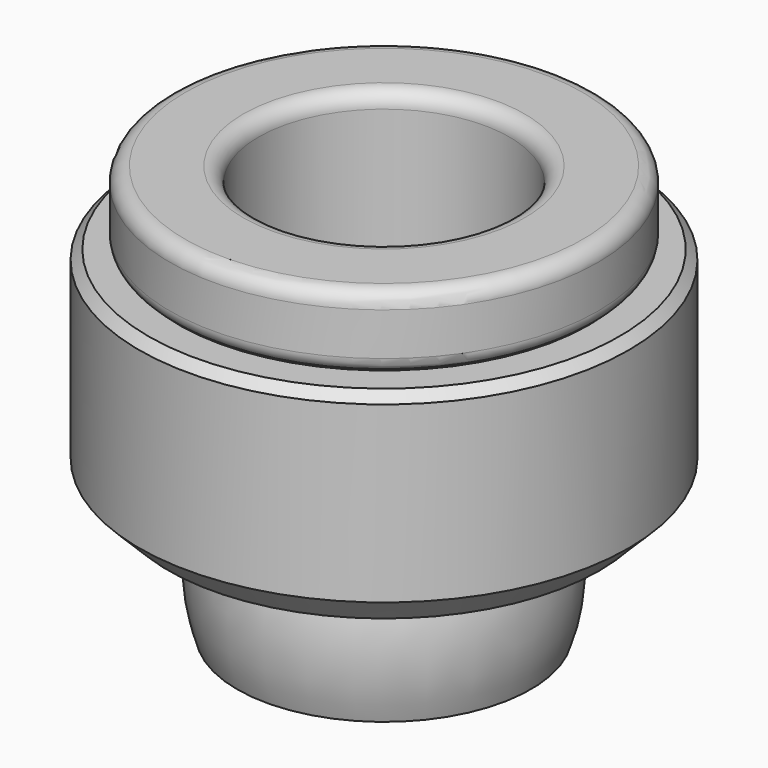
from build123d import *

# Parameters (mm, degrees)
F2_SIZE = 0.15
F5_R    = 0.25


with BuildPart() as f1:
    # F0 (on Front) → F1 (revolve)
    with BuildSketch(Plane.XZ):
        Polygon((-2.555, -2.433606), (-3.349384, 0), (-4, 0), (-4, -2.998333), (-3.518333, -3.48), (-3.036667, -3.48), (-2.555, -2.998333), align=None)
    revolve(axis=Axis((0, 0, -2.45793), (0, 0, -1)))

    # F2
    f2_edges = [f1.edges().sort_by_distance(p)[0] for p in [
        (4, 0, 0),
    ]]
    chamfer(f2_edges, length=F2_SIZE)


with BuildPart() as f4:
    # F3 (on Front) → F4 (revolve)
    with BuildSketch(Plane.XZ):
        with BuildLine():
            Line((-3.5, 0), (-2.4, 0))
            Line((-2.4, 0), (-2.4, -3.55))
            ThreePointArc((-2.4, -3.55), (-2.571573, -4.55), (-2.4, -5.55))
            Line((-2.4, -5.55), (-2.05, -5.55))
            Line((-2.05, -5.55), (-2.05, 1.2))
            Line((-2.05, 1.2), (-3.5, 1.2))
            Line((-3.5, 1.2), (-3.5, 0))
        make_face()
    revolve(axis=Axis((0, 0, -3.051124), (0, 0, -1)))

    # F5
    f5_edges = [f4.edges().sort_by_distance(p)[0] for p in [
        (3.5, 0, 1.2),
        (3.5, 0, 0),
        (2.05, 0, 1.2),
    ]]
    fillet(f5_edges, radius=F5_R)


solid = Compound([f1.part, f4.part])
